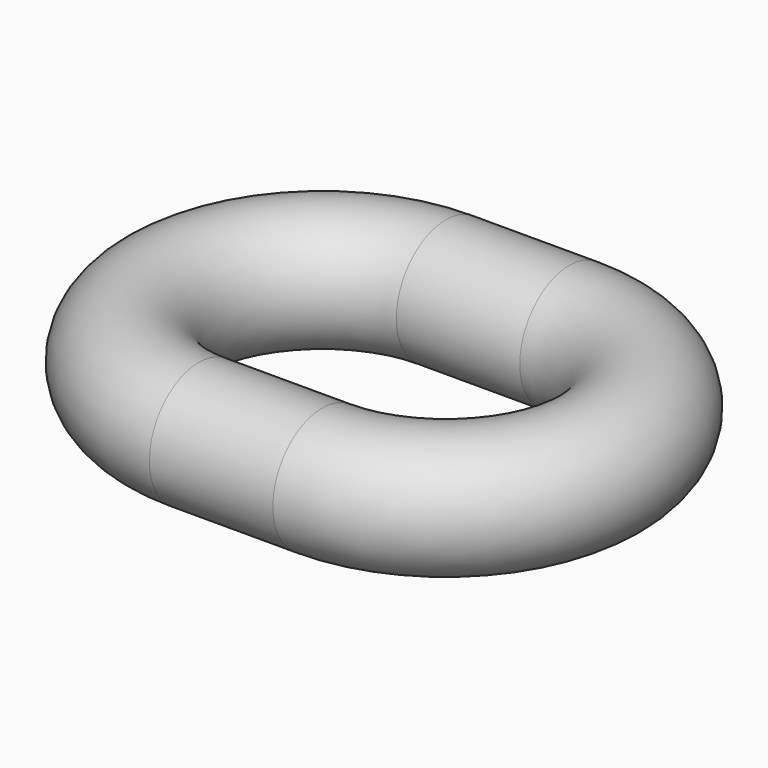
from build123d import *

# Parameters (mm, degrees)
F1_R = 2


with BuildPart() as f2:
    # F2: sweep along a path in F0
    with BuildLine(Plane.XY) as f2_path:
        Line((0, -5), (4, -5))
        ThreePointArc((4, -5), (9, 0), (4, 5))
        Line((4, 5), (0, 5))
        ThreePointArc((0, 5), (-5, 0), (0, -5))
    # F1 (on Right) → F2 (sweep)
    with BuildSketch(Plane.YZ):
        with Locations((-5, 0)):
            Circle(F1_R)
    sweep(path=f2_path.line)


solid = f2.part
